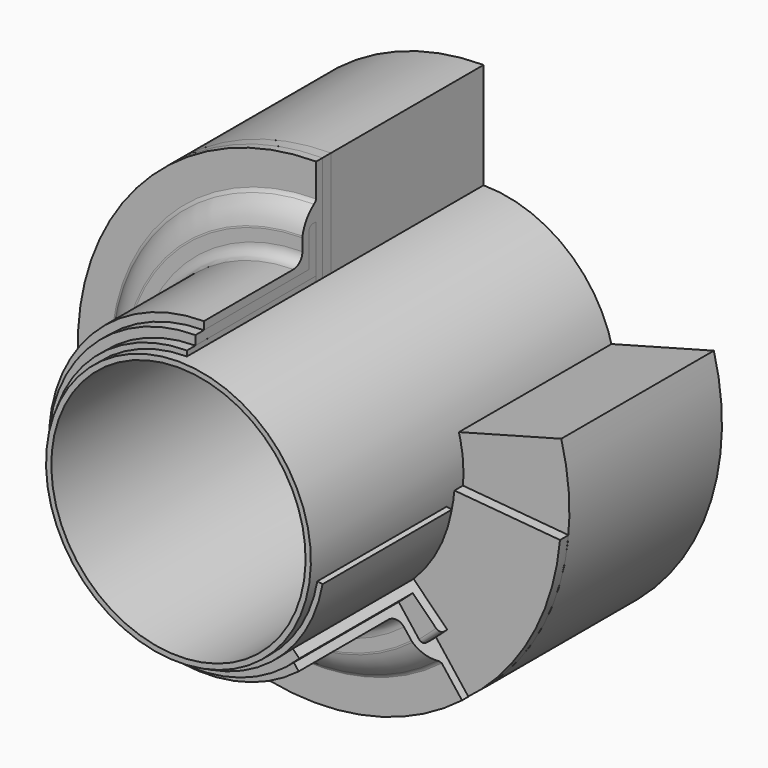
from build123d import *

# Parameters (mm, degrees)
F0_W     = 457.2
F0_H     = 254
F2_ANGLE = 285
F0_W_2   = 25.4
F3_ANGLE = 265
F4_ANGLE = 217.7183769571
F5_ANGLE = 225
F0_W_3   = 412.75
F0_H_2   = 12.7
F6_ANGLE = 260
F7_DEPTH = 76.2
F8_DEPTH = 50.8
F9_DEPTH = 25.4


with BuildPart() as f1:
    # F0 (on Right) → F1 (revolve)
    with BuildSketch(Plane.YZ):
        Polygon((-457.2, 317.5), (-457.2, 304.8), (457.2, 304.8), (457.2, 317.5), (0, 317.5), (-25.4, 317.5), (-44.45, 317.5), align=None)
    revolve(axis=Axis((0, 0, 0), (0, 1, 0)))


with BuildPart() as f2:
    # F0 (on Right) → F2 (revolve)
    with BuildSketch(Plane.YZ):
        with Locations((228.6, 444.5)):
            Rectangle(F0_W, F0_H)
    revolve(axis=Axis((0, 0, 0), (0, -1, 0)), revolution_arc=F2_ANGLE)


with BuildPart() as f3:
    # F0 (on Right) → F3 (revolve)
    with BuildSketch(Plane.YZ):
        with Locations((-12.7, 444.5)):
            Rectangle(F0_W_2, F0_H)
    revolve(axis=Axis((0, 0, 0), (0, -1, 0)), revolution_arc=F3_ANGLE)


with BuildPart() as f4:
    # F0 (on Right) → F4 (revolve)
    with BuildSketch(Plane.YZ):
        with BuildLine():
            Line((-44.45, 330.2), (-44.45, 317.5))
            Line((-44.45, 317.5), (-25.4, 317.5))
            Line((-25.4, 317.5), (-25.4, 571.5))
            Line((-25.4, 571.5), (-44.45, 571.5))
            Line((-44.45, 571.5), (-44.45, 492.4146206836))
            ThreePointArc((-44.45, 492.4146206836), (-47.1502863313, 487.8443910671), (-51.0068258264, 484.1967002713))
            ThreePointArc((-51.0068258264, 484.1967002713), (-73.3203578572, 460.8530223268), (-85.3736820235, 430.8940772818))
            ThreePointArc((-85.3736820235, 430.8940772818), (-85.6369670993, 429.081693634), (-85.725, 427.252403136))
            Line((-85.725, 427.252403136), (-85.725, 398.145))
            ThreePointArc((-85.725, 398.145), (-93.5364621458, 379.2864621458), (-112.395, 371.475))
            Line((-112.395, 371.475), (-457.2, 371.475))
            Line((-457.2, 371.475), (-457.2, 352.425))
            Line((-457.2, 352.425), (-66.675, 352.425))
            Line((-66.675, 352.425), (-66.675, 431.8))
            ThreePointArc((-66.675, 431.8), (-62.9552561211, 440.7802561211), (-53.975, 444.5))
            Line((-53.975, 444.5), (-44.45, 444.5))
            Line((-44.45, 444.5), (-44.45, 330.2))
        make_face()
    revolve(axis=Axis((0, -457.2, 0), (0, -1, 0)), revolution_arc=F4_ANGLE)

    # F7 (cut): a face of the model
    f7_faces = [f4.faces().sort_by_distance(p)[0] for p in [
        (-342.5031197971, -457.2, -116.9925334099),
    ]]
    extrude(f7_faces, amount=-F7_DEPTH, mode=Mode.SUBTRACT)


with BuildPart() as f5:
    # F0 (on Right) → F5 (revolve)
    with BuildSketch(Plane.YZ):
        with BuildLine():
            Line((-457.2, 352.425), (-457.2, 330.2))
            Line((-457.2, 330.2), (-44.45, 330.2))
            Line((-44.45, 330.2), (-44.45, 444.5))
            Line((-44.45, 444.5), (-53.975, 444.5))
            ThreePointArc((-53.975, 444.5), (-62.9552561211, 440.7802561211), (-66.675, 431.8))
            Line((-66.675, 431.8), (-66.675, 352.425))
            Line((-66.675, 352.425), (-457.2, 352.425))
        make_face()
    revolve(axis=Axis((0, 0, 0), (0, -1, 0)), revolution_arc=F5_ANGLE)

    # F8 (cut): a face of the model
    f8_faces = [f5.faces().sort_by_distance(p)[0] for p in [
        (-317.0366735097, -457.2, -131.3208899374),
    ]]
    extrude(f8_faces, amount=-F8_DEPTH, mode=Mode.SUBTRACT)


with BuildPart() as f6:
    # F0 (on Right) → F6 (revolve)
    with BuildSketch(Plane.YZ):
        with Locations((-250.825, 323.85)):
            Rectangle(F0_W_3, F0_H_2)
    revolve(axis=Axis((0, 0, 0), (0, -1, 0)), revolution_arc=F6_ANGLE)

    # F9 (cut): a face of the model
    f9_faces = [f6.faces().sort_by_distance(p)[0] for p in [
        (-245.8205500365, -457.2, -206.2679328714),
    ]]
    extrude(f9_faces, amount=-F9_DEPTH, mode=Mode.SUBTRACT)


solid = Compound([f1.part, f2.part, f3.part, f4.part, f5.part, f6.part])
